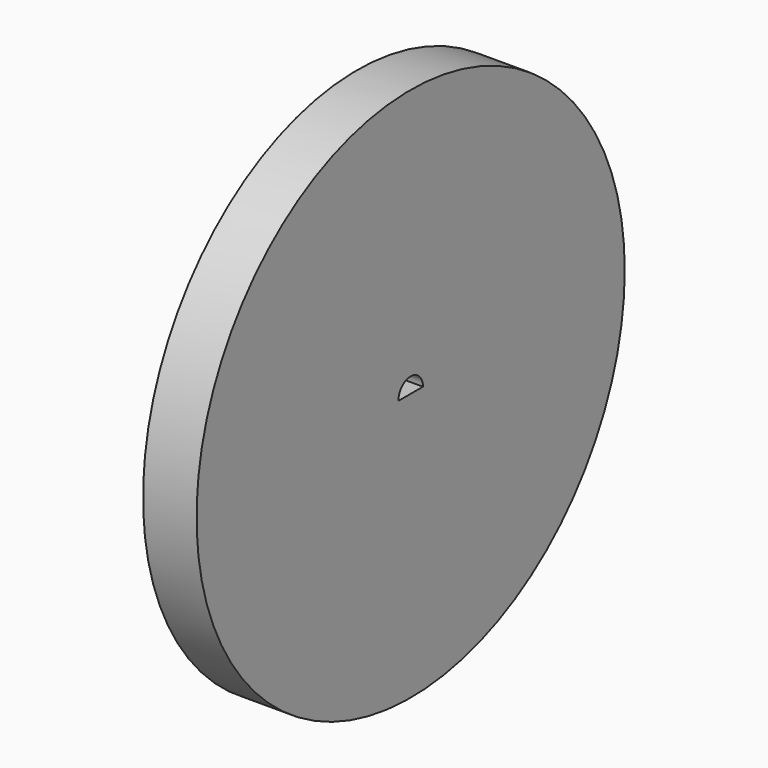
from build123d import *

# Parameters (mm, degrees)
F0_R     = 20
F1_DEPTH = 4


with BuildPart() as f1:
    # F0 (on Right) → F1 (new body)
    with BuildSketch(Plane.YZ):
        Circle(F0_R)
        with BuildLine():
            ThreePointArc((-1.15, 0), (0, 1.15), (1.15, 0))
            Line((1.15, 0), (-1.15, 0))
        make_face(mode=Mode.SUBTRACT)
    extrude(amount=F1_DEPTH)


solid = f1.part
